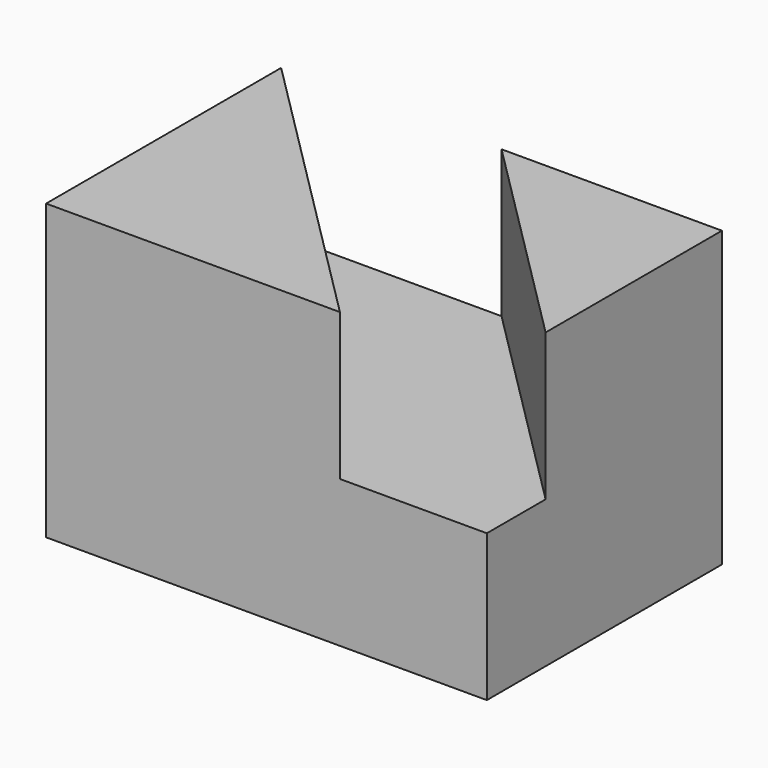
from build123d import *

# Parameters (mm, degrees)
F0_W     = 38.1
F0_H     = 25.4
F1_DEPTH = 12.7
F3_DEPTH = 12.7


with BuildPart() as f1:
    # F0 (on Front) → F1 (new body, symmetric)
    with BuildSketch(Plane.XZ):
        Rectangle(F0_W, F0_H)
    extrude(amount=F1_DEPTH, both=True)

    # F2 (on face) → F3 (cut)
    with BuildSketch(Plane.XY.offset(12.7)):
        Polygon((0, 12.7), (-19.05, 12.7), (6.35, -12.7), (19.05, -12.7), (19.05, -6.35), align=None)
    extrude(amount=-F3_DEPTH, mode=Mode.SUBTRACT)


solid = f1.part
